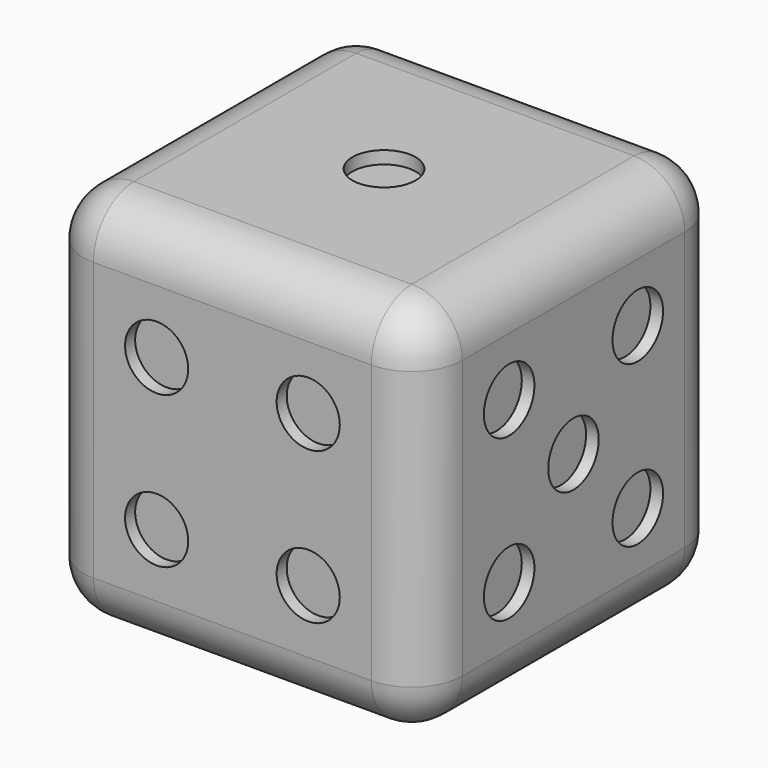
from build123d import *

# Parameters (mm, degrees)
F0_W      = 15
F0_H      = 15
F1_DEPTH  = 15
F2_R      = 2
F3_R      = 1.25
F4_DEPTH  = 0.5
F7_R      = 1.25
F8_DEPTH  = 0.5
F9_DEPTH  = 1
F6_R      = 1.25
F10_DEPTH = 0.5
F11_R     = 1.25
F12_DEPTH = 0.5
F5_R      = 1.25
F13_DEPTH = 0.5
F14_R     = 1.25
F15_DEPTH = 0.5


with BuildPart() as f1:
    # F0 (on Top) → F1 (new body)
    with BuildSketch(Plane.XY):
        with Locations((-7.5, 7.5)):
            Rectangle(F0_W, F0_H)
    extrude(amount=F1_DEPTH)

    # F2
    f2_edges = [f1.edges().sort_by_distance(p)[0] for p in [
        (-15, 15, 7.5),
        (0, 15, 7.5),
        (0, 0, 7.5),
        (-7.5, 0, 15),
        (-7.5, 15, 0),
        (-7.5, 15, 15),
        (-15, 0, 7.5),
        (-7.5, 0, 0),
        (0, 7.5, 0),
        (0, 7.5, 15),
        (-15, 7.5, 0),
        (-15, 7.5, 15),
    ]]
    fillet(f2_edges, radius=F2_R)

    # F3 (on face) → F4 (cut)
    with BuildSketch(Plane.XY.offset(15)):
        with Locations((-7.5, 7.5)):
            Circle(F3_R)
    extrude(amount=-F4_DEPTH, mode=Mode.SUBTRACT)

    # F7 (on face) → F8 (join)
    with BuildSketch(Plane(origin=(-15, 0, 0), x_dir=(0, -1, 0), z_dir=(-1, 0, 0))):
        with Locations((-10.6819805153, 4.3180194847)):
            Circle(F7_R)
        with Locations((-7.5, 7.5)):
            Circle(F7_R)
        with Locations((-4.3180194847, 10.6819805153)):
            Circle(F7_R)
    extrude(amount=F8_DEPTH)

    # F9 (cut): faces of the model
    f9_faces = [f1.faces().sort_by_distance(p)[0] for p in [
        (-15.5, 10.6819805153, 4.3180194847),
        (-15.5, 7.5, 7.5),
        (-15.5, 4.3180194847, 10.6819805153),
    ]]
    extrude(f9_faces, amount=-F9_DEPTH, mode=Mode.SUBTRACT)

    # F6 (on face) → F10 (cut)
    with BuildSketch(Plane.XZ):
        with Locations((-4.5, 4.5)):
            Circle(F6_R)
        with Locations((-10.5, 4.5)):
            Circle(F6_R)
        with Locations((-10.5, 10.5)):
            Circle(F6_R)
        with Locations((-4.5, 10.5)):
            Circle(F6_R)
    extrude(amount=-F10_DEPTH, mode=Mode.SUBTRACT)

    # F11 (on face) → F12 (cut)
    with BuildSketch(Plane.YZ):
        with Locations((4.3180194847, 10.6819805153)):
            Circle(F11_R)
        with Locations((10.6819805153, 10.6819805153)):
            Circle(F11_R)
        with Locations((7.5, 7.5)):
            Circle(F11_R)
        with Locations((4.3180194847, 4.3180194847)):
            Circle(F11_R)
        with Locations((10.6819805153, 4.3180194847)):
            Circle(F11_R)
    extrude(amount=-F12_DEPTH, mode=Mode.SUBTRACT)

    # F5 (on face) → F13 (cut)
    with BuildSketch(Plane(origin=(0, 0, 0), x_dir=(1, 0, 0), z_dir=(0, 0, -1))):
        with Locations((-11, -4.5)):
            Circle(F5_R)
        with Locations((-7.5, -4.5)):
            Circle(F5_R)
        with Locations((-4, -4.5)):
            Circle(F5_R)
        with Locations((-4, -10.5)):
            Circle(F5_R)
        with Locations((-7.5, -10.5)):
            Circle(F5_R)
        with Locations((-11, -10.5)):
            Circle(F5_R)
    extrude(amount=-F13_DEPTH, mode=Mode.SUBTRACT)

    # F14 (on face) → F15 (cut)
    with BuildSketch(Plane(origin=(0, 15, 0), x_dir=(-1, 0, 0), z_dir=(0, 1, 0))):
        with Locations((10.5, 10.5)):
            Circle(F14_R)
        with Locations((4.5, 4.5)):
            Circle(F14_R)
    extrude(amount=-F15_DEPTH, mode=Mode.SUBTRACT)


solid = f1.part
